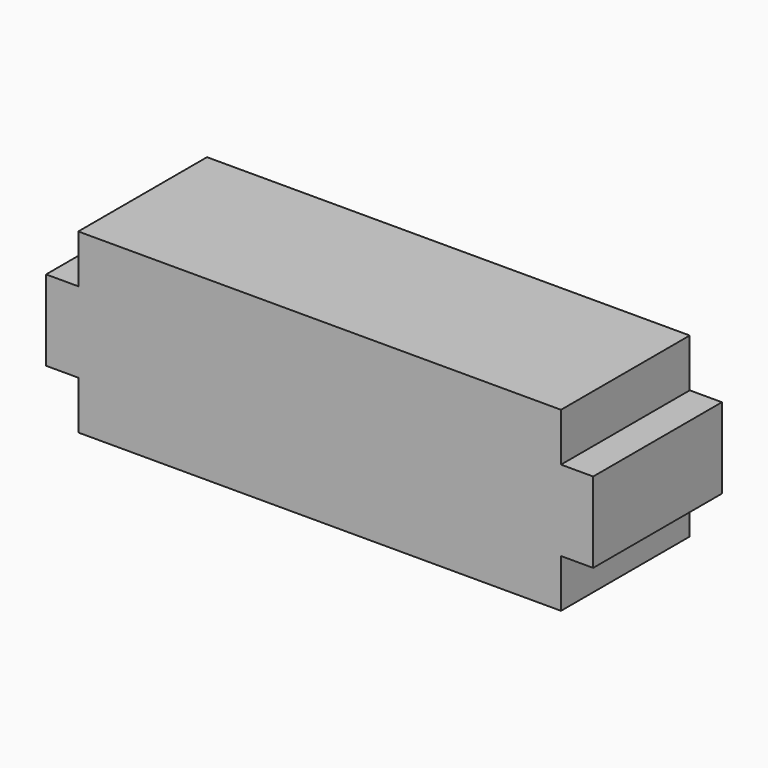
from build123d import *

# Parameters (mm, degrees)
F0_W     = 30
F0_H     = 10
F1_DEPTH = 3
F2_W     = 34
F2_H     = 10
F3_DEPTH = 5
F4_W     = 30
F4_H     = 10
F5_DEPTH = 2
F6_W     = 30
F6_H     = 10
F7_DEPTH = 1


with BuildPart() as f1:
    # F0 (on Top) → F1 (new body)
    with BuildSketch(Plane.XY):
        Rectangle(F0_W, F0_H)
    extrude(amount=F1_DEPTH)

    # F2 (on face) → F3 (join)
    with BuildSketch(Plane.XY.offset(3)):
        Rectangle(F2_W, F2_H)
    extrude(amount=F3_DEPTH)

    # F4 (on face) → F5 (join)
    with BuildSketch(Plane.XY.offset(8)):
        Rectangle(F4_W, F4_H)
    extrude(amount=F5_DEPTH)

    # F6 (on face) → F7 (join)
    with BuildSketch(Plane.XY.offset(10)):
        Rectangle(F6_W, F6_H)
    extrude(amount=F7_DEPTH)


solid = f1.part
